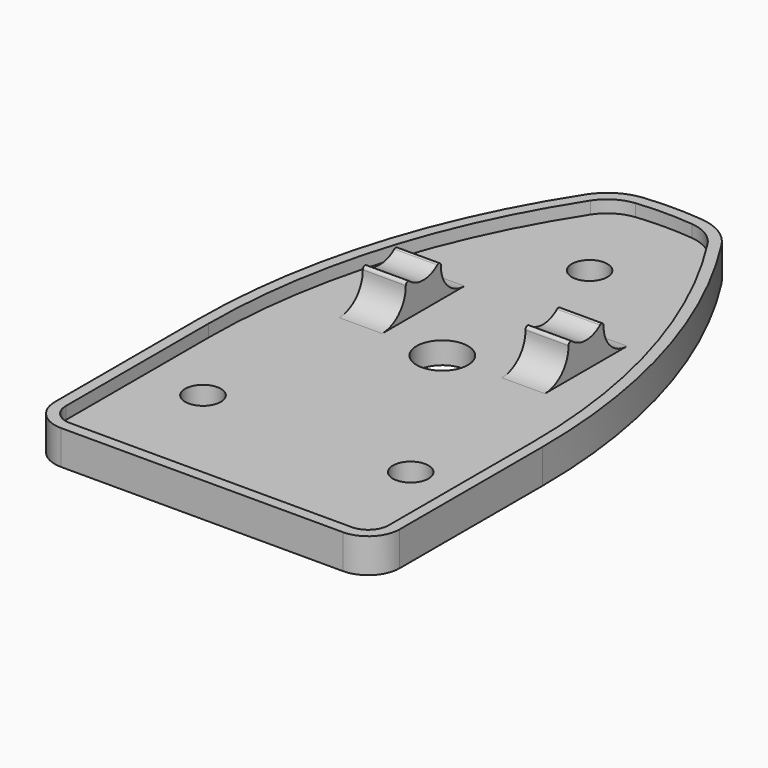
from build123d import *

# Parameters (mm, degrees)
F0_R     = 3.302
F0_R_2   = 4.7625
F1_DEPTH = 4.064
F3_DEPTH = 19.05
F4_DEPTH = 11.0871
F6_DEPTH = 6.35


with BuildPart() as f1:
    # F0 (on Top) → F1 (new body)
    with BuildSketch(Plane.XY):
        with BuildLine():
            ThreePointArc((-10.8559225607, -3.7088047495), (-25.0461002864, -34.6422404521), (-29.9085, -68.326))
            Line((-29.9085, -68.326), (-29.9085, -101.346))
            ThreePointArc((-29.9085, -101.346), (-28.7925768363, -104.0400768363), (-26.0985, -105.156))
            Line((-26.0985, -105.156), (0, -105.156))
            Line((0, -105.156), (26.0985, -105.156))
            ThreePointArc((26.0985, -105.156), (28.7925768363, -104.0400768363), (29.9085, -101.346))
            Line((29.9085, -101.346), (29.9085, -68.326))
            ThreePointArc((29.9085, -68.326), (25.0461002864, -34.6422404521), (10.8559225607, -3.7088047495))
            ThreePointArc((10.8559225607, -3.7088047495), (8.4291493536, -1.3414386781), (5.215684606, -0.2610245767))
            ThreePointArc((5.215684606, -0.2610245767), (2.6111060749, -0.0652969534), (0, 0))
            ThreePointArc((0, 0), (-2.6111060749, -0.0652969534), (-5.215684606, -0.2610245767))
            ThreePointArc((-5.215684606, -0.2610245767), (-8.4291493536, -1.3414386781), (-10.8559225607, -3.7088047495))
        make_face()
        with Locations((-19.2405, -82.931)):
            Circle(F0_R, mode=Mode.SUBTRACT)
        with Locations((19.2405, -82.931)):
            Circle(F0_R, mode=Mode.SUBTRACT)
        with Locations((0, -51.562)):
            Circle(F0_R_2, mode=Mode.SUBTRACT)
        with Locations((0, -17.4625)):
            Circle(F0_R, mode=Mode.SUBTRACT)
    extrude(amount=F1_DEPTH)

    # F2 (on Right) → F3 (join, symmetric)
    with BuildSketch(Plane.YZ):
        with BuildLine():
            Line((-51.6255, 4.064), (-32.5755, 4.064))
            ThreePointArc((-32.5755, 4.064), (-36.4801215826, 5.7092093226), (-38.0299678542, 9.6526545109))
            ThreePointArc((-38.0299678542, 9.6526545109), (-38.3159932296, 10.1220079213), (-38.8616980577, 10.0563620532))
            ThreePointArc((-38.8616980577, 10.0563620532), (-42.1005, 8.89), (-45.3393019423, 10.0563620532))
            ThreePointArc((-45.3393019423, 10.0563620532), (-45.8850067704, 10.1220079213), (-46.1710321458, 9.6526545109))
            ThreePointArc((-46.1710321458, 9.6526545109), (-47.7208784174, 5.7092093226), (-51.6255, 4.064))
        make_face()
    extrude(amount=F3_DEPTH, both=True)

    # F2 (on Right) → F4 (cut, symmetric)
    with BuildSketch(Plane.YZ):
        with BuildLine():
            Line((-51.6255, 4.064), (-32.5755, 4.064))
            ThreePointArc((-32.5755, 4.064), (-36.4801215826, 5.7092093226), (-38.0299678542, 9.6526545109))
            ThreePointArc((-38.0299678542, 9.6526545109), (-38.3159932296, 10.1220079213), (-38.8616980577, 10.0563620532))
            ThreePointArc((-38.8616980577, 10.0563620532), (-42.1005, 8.89), (-45.3393019423, 10.0563620532))
            ThreePointArc((-45.3393019423, 10.0563620532), (-45.8850067704, 10.1220079213), (-46.1710321458, 9.6526545109))
            ThreePointArc((-46.1710321458, 9.6526545109), (-47.7208784174, 5.7092093226), (-51.6255, 4.064))
        make_face()
    extrude(amount=F4_DEPTH, both=True, mode=Mode.SUBTRACT)

    # F5 (on Top) → F6 (join)
    with BuildSketch(Plane.XY):
        with BuildLine():
            ThreePointArc((5.4185637479, 1.7608221173), (0, 2.032), (-5.4185637479, 1.7608221173))
            ThreePointArc((-5.4185637479, 1.7608221173), (-9.4889524281, 0.3922975888), (-12.5628651572, -2.6063661016))
            ThreePointArc((-12.5628651572, -2.6063661016), (-26.9951425328, -34.067559391), (-31.9405, -68.326))
            Line((-31.9405, -68.326), (-31.9405, -101.346))
            ThreePointArc((-31.9405, -101.346), (-30.2294178157, -105.4769178157), (-26.0985, -107.188))
            Line((-26.0985, -107.188), (26.0985, -107.188))
            ThreePointArc((26.0985, -107.188), (30.2294178157, -105.4769178157), (31.9405, -101.346))
            Line((31.9405, -101.346), (31.9405, -68.326))
            ThreePointArc((31.9405, -68.326), (26.9951425328, -34.067559391), (12.5628651572, -2.6063661016))
            ThreePointArc((12.5628651572, -2.6063661016), (9.4889524281, 0.3922975888), (5.4185637479, 1.7608221173))
        make_face()
        with BuildLine():
            ThreePointArc((-29.9085, -68.326), (-25.0461002864, -34.6422404521), (-10.8559225607, -3.7088047495))
            ThreePointArc((-10.8559225607, -3.7088047495), (-8.4291493536, -1.3414386781), (-5.215684606, -0.2610245767))
            ThreePointArc((-5.215684606, -0.2610245767), (0, 0), (5.215684606, -0.2610245767))
            ThreePointArc((5.215684606, -0.2610245767), (8.4291493536, -1.3414386781), (10.8559225607, -3.7088047495))
            ThreePointArc((10.8559225607, -3.7088047495), (25.0461002864, -34.6422404521), (29.9085, -68.326))
            Line((29.9085, -68.326), (29.9085, -101.346))
            ThreePointArc((29.9085, -101.346), (28.7925768363, -104.0400768363), (26.0985, -105.156))
            Line((26.0985, -105.156), (-26.0985, -105.156))
            ThreePointArc((-26.0985, -105.156), (-28.7925768363, -104.0400768363), (-29.9085, -101.346))
            Line((-29.9085, -101.346), (-29.9085, -68.326))
        make_face(mode=Mode.SUBTRACT)
    extrude(amount=F6_DEPTH)


solid = f1.part
